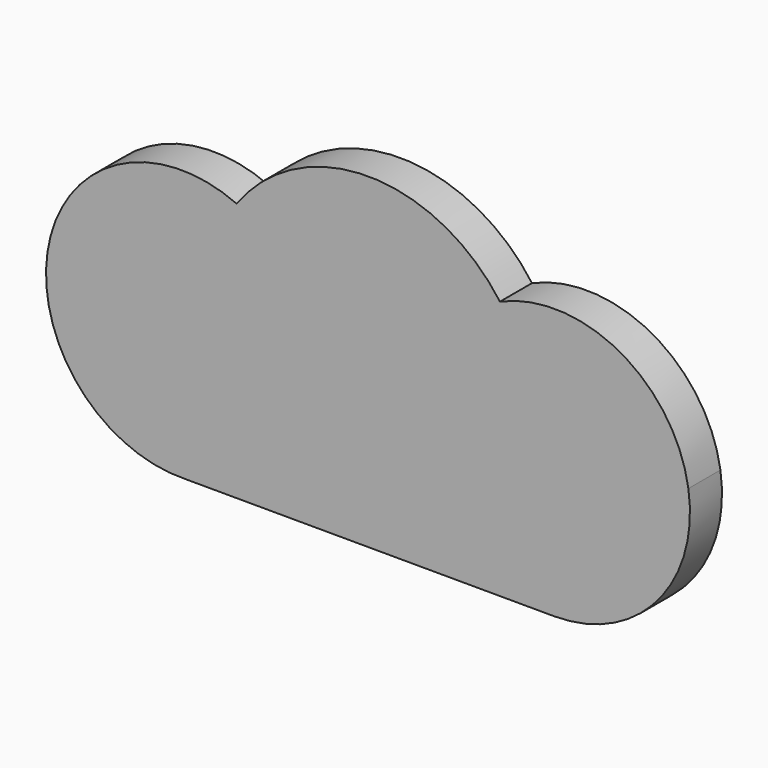
from build123d import *

# Parameters (mm, degrees)
F1_DEPTH = 5


with BuildPart() as f1:
    # F0 (on Front) → F1 (new body)
    with BuildSketch(Plane.XZ):
        with BuildLine():
            ThreePointArc((23.237107, -20.516574), (36.096747, -14.629408), (39.9817, -1.030283))
            Line((39.9817, -1.030283), (-40.0183, -1.030283))
            ThreePointArc((-40.0183, -1.030283), (-35.955877, -14.715882), (-22.865423, -20.411399))
            Line((-22.865423, -20.411399), (23.237107, -20.516574))
        make_face()
        with BuildLine():
            ThreePointArc((39.9817, -1.030283), (31.397904, 11.212981), (16.459214, 11.856882))
            ThreePointArc((16.459214, 11.856882), (0.042134, 20.285207), (-16.409817, 11.925154))
            ThreePointArc((-16.409817, 11.925154), (-31.429611, 11.307086), (-40.0183, -1.030283))
            Line((-40.0183, -1.030283), (39.9817, -1.030283))
        make_face()
    extrude(amount=F1_DEPTH)


solid = f1.part
